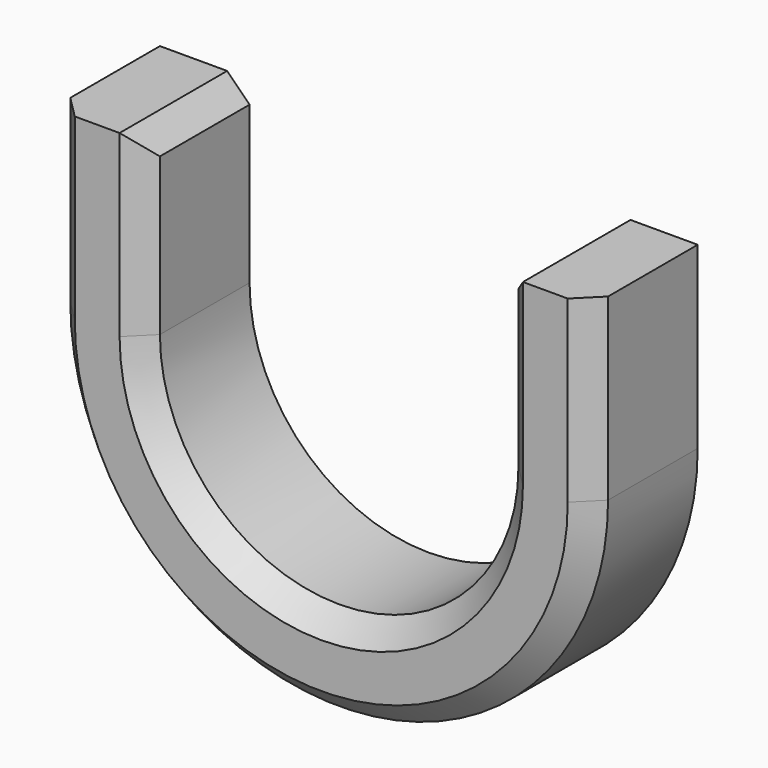
from build123d import *

# Parameters (mm, degrees)
F1_DEPTH = 15
F2_SIZE  = 2.5


with BuildPart() as f1:
    # F0 (on Front) → F1 (new body)
    with BuildSketch(Plane.XZ):
        with BuildLine():
            ThreePointArc((20, 0), (0, -20), (-20, 0))
            Line((-20, 0), (-20, 20))
            Line((-20, 20), (-30, 20))
            Line((-30, 20), (-30, 0))
            ThreePointArc((-30, 0), (0, -30), (30, 0))
            Line((30, 0), (30, 20))
            Line((30, 20), (20, 20))
            Line((20, 20), (20, 0))
        make_face()
    extrude(amount=F1_DEPTH)

    # F2
    f2_edges = [f1.edges().sort_by_distance(p)[0] for p in [
        (20, -7.5, 20),
        (-20, -7.5, 20),
        (30, -15, 10),
        (-20, -15, 10),
    ]]
    chamfer(f2_edges, length=F2_SIZE)


solid = f1.part
